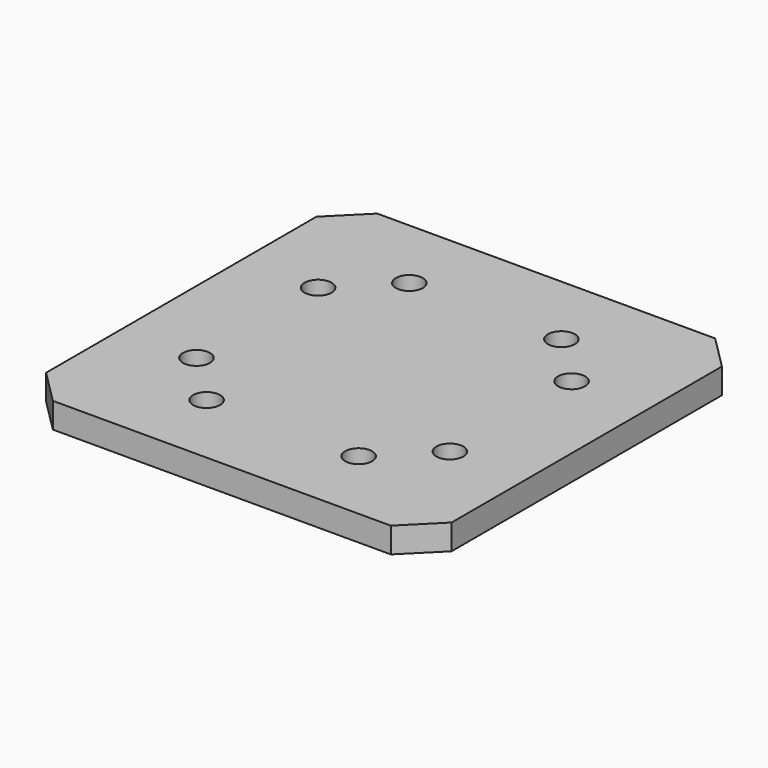
from build123d import *

# Parameters (mm, degrees)
F0_W     = 24
F0_H     = 24
F0_R     = 1.6
F1_DEPTH = 3
F2_SIZE  = 4
F3_COUNT = 4


with BuildPart() as f1:
    # F0 (on Top) → F1 (new body)
    with BuildSketch(Plane.XY):
        with Locations((13, 13)):
            Rectangle(F0_W, F0_H)
        with Locations((16, 10)):
            Circle(F0_R, mode=Mode.SUBTRACT)
        with Locations((10, 16)):
            Circle(F0_R, mode=Mode.SUBTRACT)
    extrude(amount=F1_DEPTH)

    # F2
    f2_edges = [f1.edges().sort_by_distance(p)[0] for p in [
        (1, 1, 1.5),
    ]]
    chamfer(f2_edges, length=F2_SIZE)

    # F3: F1 ×4 about axis
    f3_axis = Axis((25, 25, 1.5), (0, 0, -1))


with BuildPart() as f1_1:
    add(f1.part)
    for i in range(1, F3_COUNT):
        add(f1.part.rotate(f3_axis, i * 360 / F3_COUNT))


solid = f1_1.part
